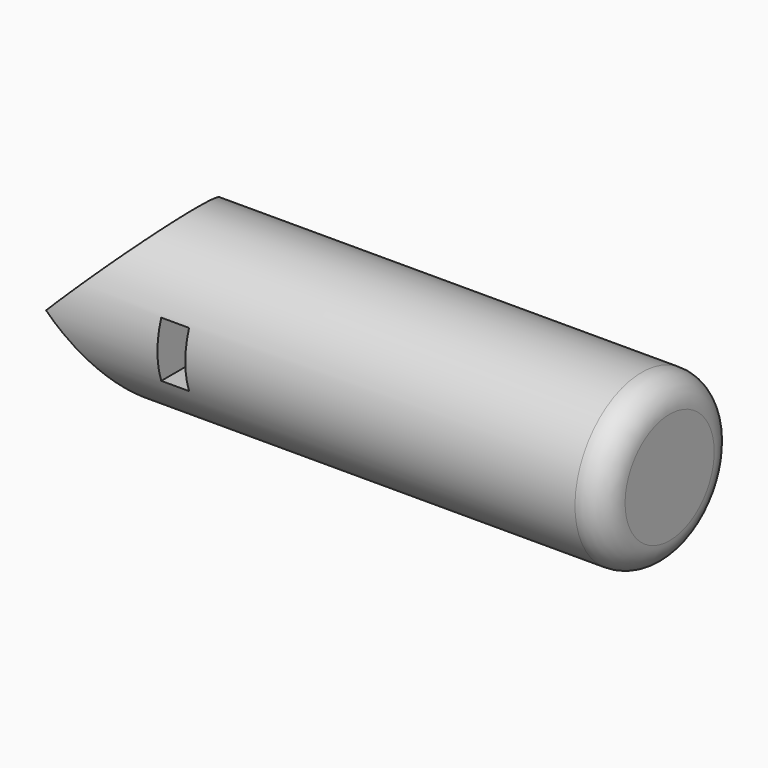
from build123d import *

# Parameters (mm, degrees)
BOX_W                = 5
BOX_H                = 10
BOX_DEPTH            = 48
BOX_ROLL_ANGLE       = 90
CYLINDER001_R        = 15
CYLINDER001_DEPTH    = 100
CYLINDER_R           = 15
CYLINDER_DEPTH       = 100
CYLINDER_PITCH_ANGLE = 90
FILLET_R             = 5


with BuildPart() as cubo:
    # Box → Box (new body)
    with BuildSketch(Plane.XY):
        with Locations((2.5, 5)):
            Rectangle(BOX_W, BOX_H)
    extrude(amount=BOX_DEPTH)


with BuildPart() as cubo_1:
    # Box roll: moved
    add(cubo.part.rotate(Axis((0, 0, 0), (1, 0, 0)), BOX_ROLL_ANGLE))


with BuildPart() as cubo_2:
    # Box placement: moved
    add(cubo_1.part.moved(Location((20, 27, -5))))


with BuildPart() as cilindro001:
    # Cylinder001 → Cylinder001 (new body)
    with BuildSketch(Plane.XY.offset(-44)):
        Circle(CYLINDER001_R)
    extrude(amount=CYLINDER001_DEPTH)


with BuildPart() as fillet_body:
    # Cylinder → Cylinder (new body)
    with BuildSketch(Plane.XY):
        Circle(CYLINDER_R)
    extrude(amount=CYLINDER_DEPTH)


with BuildPart() as fillet_body_1:
    # Cylinder pitch: moved
    add(fillet_body.part.rotate(Axis((0, 0, 0), (0, 1, 0)), CYLINDER_PITCH_ANGLE))


with BuildPart() as fillet_body_2:
    # Cylinder placement: moved
    add(fillet_body_1.part)

    # Cut: cut Cilindro001
    add(cilindro001.part, mode=Mode.SUBTRACT)

    # Cut001: cut Cubo
    add(cubo_2.part, mode=Mode.SUBTRACT)

    # Fillet
    fillet_edges = [fillet_body_2.edges().sort_by_distance(p)[0] for p in [
        (100, 0, 15),
    ]]
    fillet(fillet_edges, radius=FILLET_R)


solid = fillet_body_2.part
